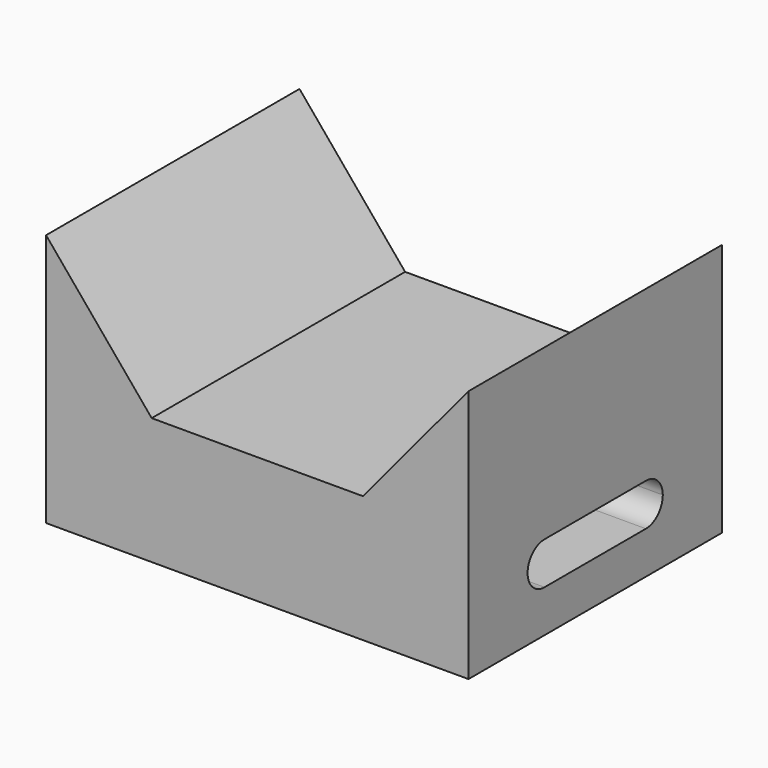
from build123d import *

# Parameters (mm, degrees)
F1_DEPTH = 75
F3_DEPTH = 200.001


with BuildPart() as f1:
    # F0 (on Front) → F1 (new body, symmetric)
    with BuildSketch(Plane.XZ):
        Polygon((-100, -60), (100, -60), (100, 60), (50, 0), (-50, 0), (-100, 60), align=None)
    extrude(amount=F1_DEPTH, both=True)

    # F2 (on face) → F3 (cut, through all)
    with BuildSketch(Plane.YZ.offset(100)):
        with BuildLine():
            ThreePointArc((30, -40), (20, -30), (30, -20))
            Line((30, -20), (-30, -20))
            ThreePointArc((-30, -20), (-22.9289321881, -22.9289321881), (-20, -30))
            ThreePointArc((-20, -30), (-22.9289321881, -37.0710678119), (-30, -40))
            Line((-30, -40), (30, -40))
        make_face()
        with BuildLine():
            ThreePointArc((40, -30), (37.0710678119, -22.9289321881), (30, -20))
            Line((30, -20), (30, -40))
            ThreePointArc((30, -40), (37.0710678119, -37.0710678119), (40, -30))
        make_face()
        with BuildLine():
            Line((30, -40), (30, -20))
            ThreePointArc((30, -20), (20, -30), (30, -40))
        make_face()
        with BuildLine():
            ThreePointArc((-20, -30), (-22.9289321881, -22.9289321881), (-30, -20))
            Line((-30, -20), (-30, -40))
            ThreePointArc((-30, -40), (-22.9289321881, -37.0710678119), (-20, -30))
        make_face()
        with BuildLine():
            Line((-30, -40), (-30, -20))
            ThreePointArc((-30, -20), (-40, -30), (-30, -40))
        make_face()
    extrude(amount=-F3_DEPTH, mode=Mode.SUBTRACT)


solid = f1.part
